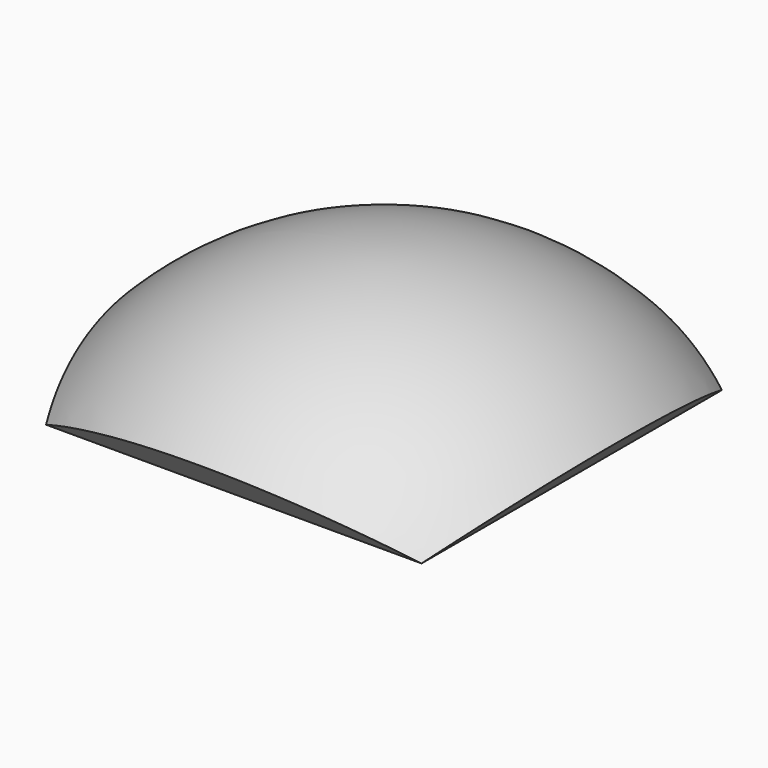
from build123d import *

# Parameters (mm, degrees)
F3_DEPTH = 1100
F5_DEPTH = 1100
F6_R     = 1000
F7_DEPTH = 577.3502691896


with BuildPart() as f1:
    # F0 (on Front) → F1 (revolve)
    with BuildSketch(Plane.XZ):
        with BuildLine():
            Line((0, -1000), (0, 1000))
            ThreePointArc((0, 1000), (-1000, 0), (0, -1000))
        make_face()
    revolve(axis=Axis((0, 0, 0), (0, 0, -1)))

    # F2 (on Front) → F3 (cut, symmetric)
    with BuildSketch(Plane.XZ):
        Polygon((0, 0), (-1100, 1100), (-1100, -1100), (1100, -1100), (1100, 1100), align=None)
    extrude(amount=F3_DEPTH, both=True, mode=Mode.SUBTRACT)

    # F4 (on Right) → F5 (cut, symmetric)
    with BuildSketch(Plane.YZ):
        Polygon((0, 0), (-1100, 1100), (-1100, -1100), (1100, -1100), (1100, 1100), align=None)
    extrude(amount=F5_DEPTH, both=True, mode=Mode.SUBTRACT)

    # F6 (on Top) → F7 (cut, through all)
    with BuildSketch(Plane.XY):
        Circle(F6_R)
    extrude(amount=F7_DEPTH, mode=Mode.SUBTRACT)


solid = f1.part
